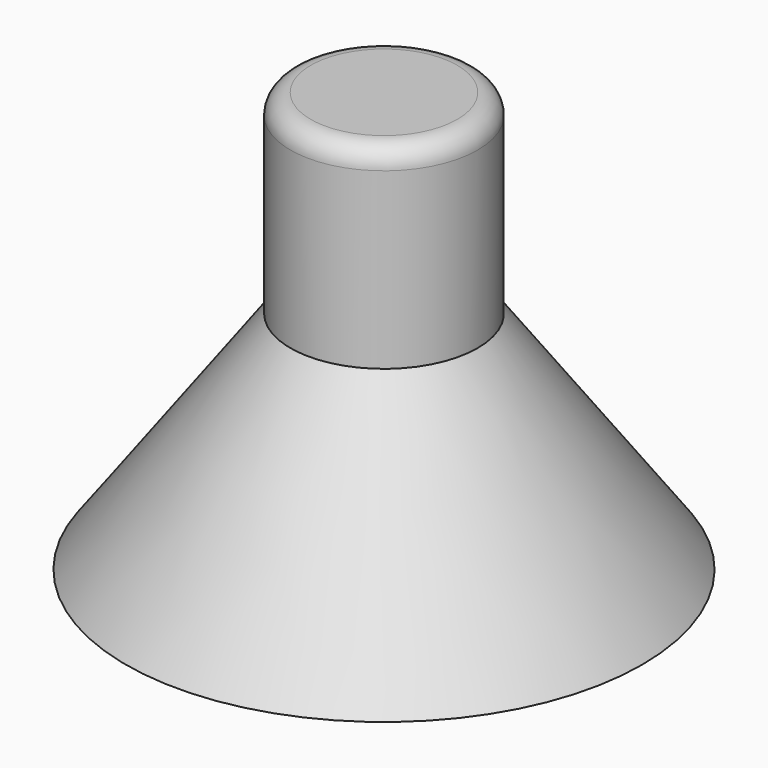
from build123d import *

# Parameters (mm, degrees)
F2_R     = 15.310073
F3_DEPTH = 13.716


with BuildPart() as f1:
    # F0 (on Front) → F1 (revolve)
    with BuildSketch(Plane.XZ):
        with BuildLine():
            Line((0, 52.370589), (0, 0))
            Line((0, 0), (32.193374, 0))
            Line((32.193374, 0), (11.677988, 28.090294))
            Line((11.677988, 28.090294), (11.677988, 49.830589))
            ThreePointArc((11.677988, 49.830589), (10.934039, 51.62664), (9.137988, 52.370589))
            Line((9.137988, 52.370589), (0, 52.370589))
        make_face()
    revolve(axis=Axis((0, 0, 26.185294), (0, 0, -1)))

    # F2 (on face) → F3 (cut)
    with BuildSketch(Plane(origin=(0, 0, 0), x_dir=(1, 0, 0), z_dir=(0, 0, -1))):
        Circle(F2_R)
    extrude(amount=-F3_DEPTH, mode=Mode.SUBTRACT)


solid = f1.part
